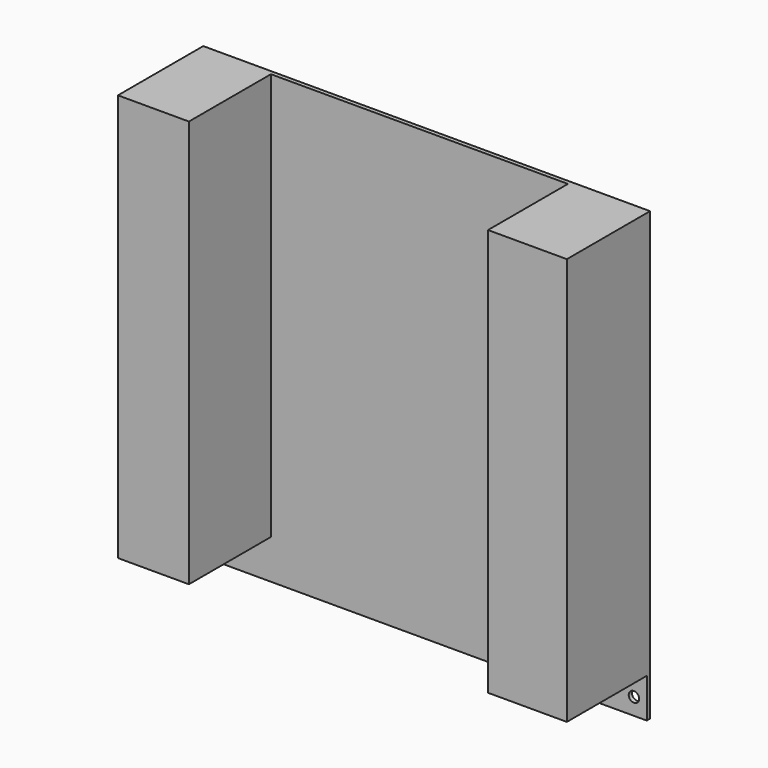
from build123d import *

# Parameters (mm, degrees)
F0_W     = 170
F0_H     = 170
F0_R     = 1.98
F1_DEPTH = 1.57
F2_W     = 155
F2_H     = 27
F3_DEPTH = 39
F4_W     = 155
F4_H     = 30
F5_DEPTH = 38
F6_ANGLE = -90


with BuildPart() as f1:
    # F0 (on Front) → F1 (new body)
    with BuildSketch(Plane.XZ):
        with Locations((85, 85)):
            Rectangle(F0_W, F0_H)
        with Locations((6.35, 4.88)):
            Circle(F0_R, mode=Mode.SUBTRACT)
        with Locations((163.93, 4.88)):
            Circle(F0_R, mode=Mode.SUBTRACT)
        with Locations((6.35, 159.84)):
            Circle(F0_R, mode=Mode.SUBTRACT)
        with Locations((163.93, 147.14)):
            Circle(F0_R, mode=Mode.SUBTRACT)
    extrude(amount=F1_DEPTH)

    # F2 (on face) → F3 (join)
    with BuildSketch(Plane.XZ.offset(1.57)):
        with Locations((92.5, 156.5)):
            Rectangle(F2_W, F2_H)
    extrude(amount=F3_DEPTH)

    # F4 (on face) → F5 (join)
    with BuildSketch(Plane.XZ.offset(1.57)):
        with Locations((92.5, 15)):
            Rectangle(F4_W, F4_H)
    extrude(amount=F5_DEPTH)


with BuildPart() as f1_1:
    # F6: moved
    add(f1.part.rotate(Axis((0, -0.785, 0), (0, 1, 0)), F6_ANGLE))


with BuildPart() as f1_2:
    # F7: moved
    add(f1_1.part.moved(Location((170, 0, 0))))


solid = f1_2.part
